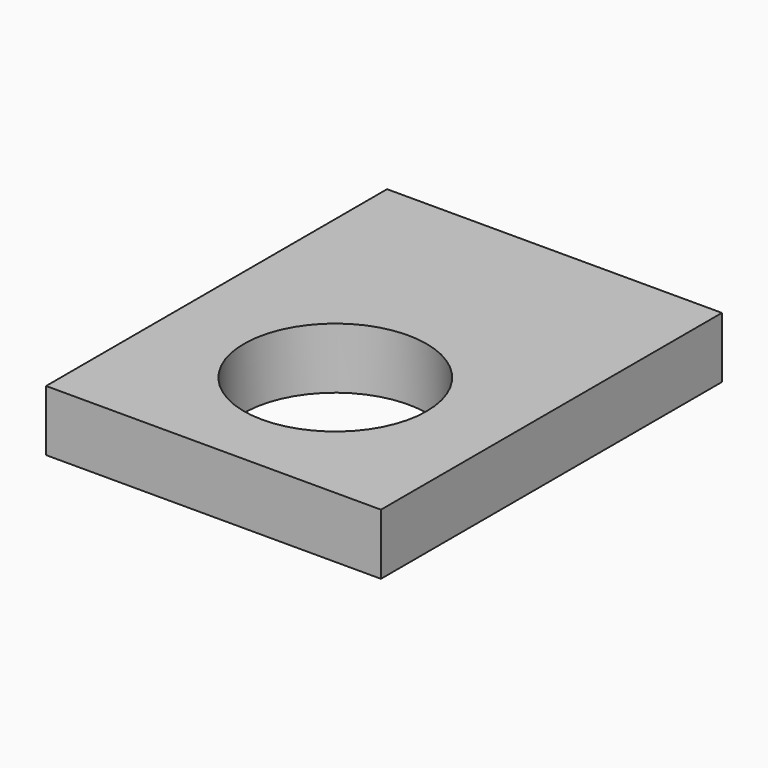
from build123d import *

# Parameters (mm, degrees)
F1_DEPTH = 5


with BuildPart() as f1:
    # F0 (on Top) → F1 (new body)
    with BuildSketch(Plane.XY):
        with BuildLine():
            ThreePointArc((21.25, -22.5), (8.446699, -17.196699), (13.75, -30))
            ThreePointArc((13.75, -30), (19.053301, -27.803301), (21.25, -22.5))
        make_face()
        Polygon((27.5, 0), (0, 0), (0, -35), (13.75, -35), (27.5, -35), align=None)
        with BuildLine():
            ThreePointArc((21.25, -22.5), (19.053301, -27.803301), (13.75, -30))
            ThreePointArc((13.75, -30), (8.446699, -17.196699), (21.25, -22.5))
        make_face(mode=Mode.SUBTRACT)
    extrude(amount=F1_DEPTH)


solid = f1.part
